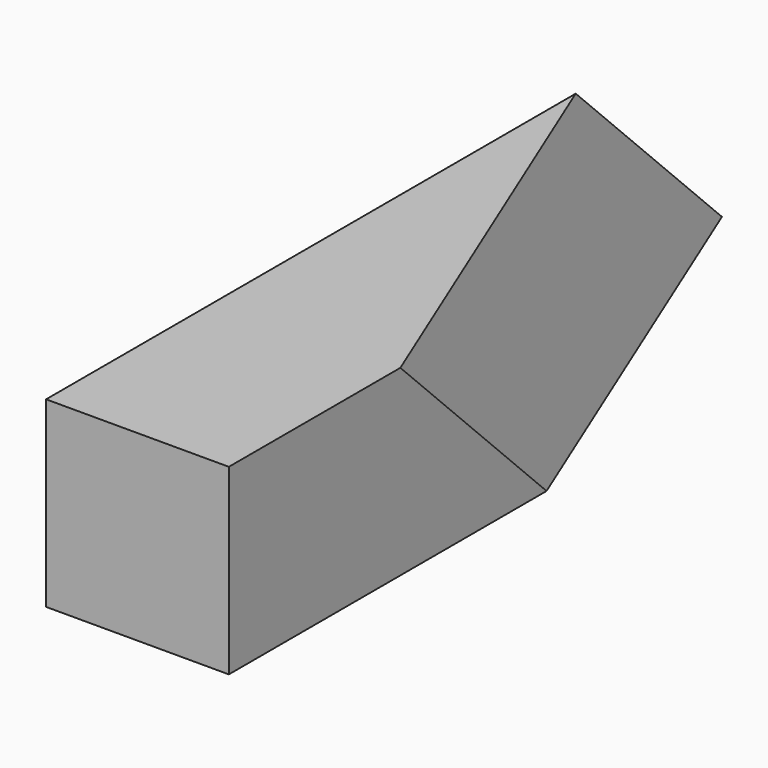
from build123d import *

# Parameters (mm, degrees)
F0_W          = 20
F0_H          = 20
F1_DEPTH      = 100
F5_W          = 527.4000167847
F5_H          = 486.7753833532
F6_DEPTH      = 18.4
F6_DEPTH_BACK = 8.6612540378


with BuildPart() as f1:
    # F0 (on Front) → F1 (new body)
    with BuildSketch(Plane.XZ):
        Rectangle(F0_W, F0_H)
    extrude(amount=F1_DEPTH)

    # F5 (on face) → F6 (cut, two sides)
    with BuildSketch(Plane(origin=(3.0618621785, 1.25, 1.25), x_dir=(-0.3273268354, 0.9354143467, -0.133630621), z_dir=(0.8660254038, 0.3535533906, 0.3535533906))) as f6_sk:
        with Locations((-38.3420586586, 61.0849037766)):
            Rectangle(F5_W, F5_H)
    extrude(amount=-F6_DEPTH, mode=Mode.SUBTRACT)
    extrude(f6_sk.sketch, amount=F6_DEPTH_BACK, mode=Mode.SUBTRACT)


solid = f1.part
